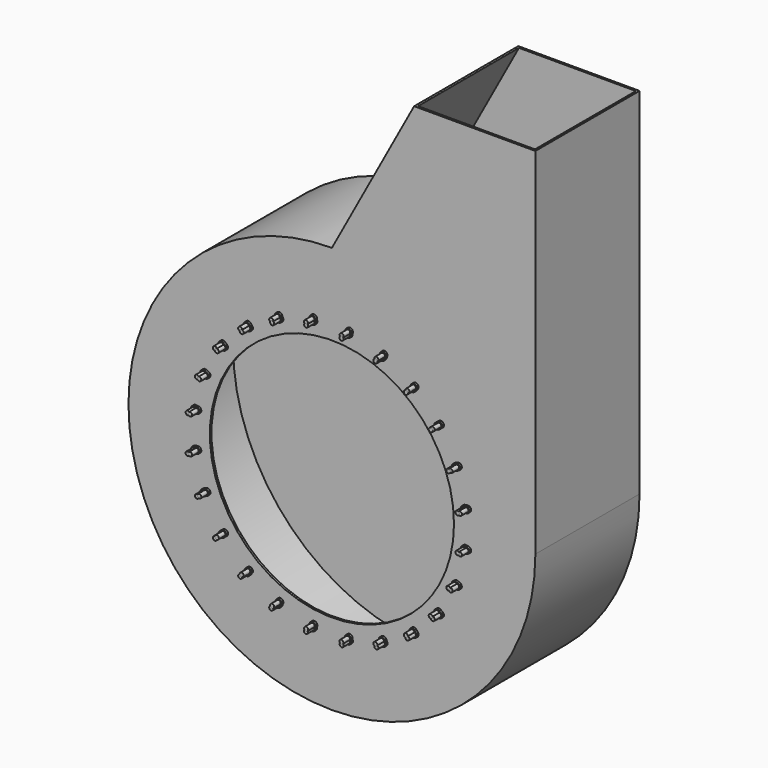
from build123d import *

# Parameters (mm, degrees)
F0_R      = 381
F0_R_2    = 6.35
F2_DEPTH  = 406.4
F3_T      = -6.35
F4_DEPTH  = 6.35
F5_DEPTH  = 31.75
F6_COUNT  = 24
F1_R      = 6.35
F7_DEPTH  = 31.75
F8_COUNT  = 24
F10_DEPTH = 6.35
F11_COUNT = 24


with BuildPart() as f2:
    # F0 (on Front) → F2 (new body)
    with BuildSketch(Plane.XZ):
        with BuildLine():
            ThreePointArc((0, 635), (449.0128060535, 449.0128060535), (635, 0))
            Line((635, 0), (635, 1107.6059138391))
            Line((635, 1107.6059138391), (256.5660140887, 1107.6059138391))
            Line((256.5660140887, 1107.6059138391), (0, 635))
        make_face()
        with BuildLine():
            ThreePointArc((0, 635), (-449.0128060535, -449.0128060535), (635, 0))
            ThreePointArc((635, 0), (449.0128060535, 449.0128060535), (0, 635))
        make_face()
        Circle(F0_R, mode=Mode.SUBTRACT)
        with Locations((55.9467891403, 424.9580537063)):
            Circle(F0_R_2, mode=Mode.SUBTRACT)
        Circle(F0_R)
        with Locations((55.9467891403, 424.9580537063)):
            Circle(F0_R_2)
    extrude(amount=-F2_DEPTH)

    # F3
    f3_openings = [f2.faces().sort_by_distance(p)[0] for p in [
        (445.783007, 203.2, 1107.605914),
    ]]
    offset(amount=F3_T, openings=f3_openings, kind=Kind.INTERSECTION)

    # F0 (on Front) → F4 (cut, through all)
    with BuildSketch(Plane.XZ):
        Circle(F0_R)
    extrude(amount=-F4_DEPTH, mode=Mode.SUBTRACT)


with BuildPart() as f5:
    # F0 (on Front) → F5 (new body)
    with BuildSketch(Plane.XZ):
        with Locations((55.9467891403, 424.9580537063)):
            Circle(F0_R_2)
    extrude(amount=F5_DEPTH)


with BuildPart() as f6_1:
    # F6: instance of F5
    add(f5.part.rotate(Axis((0, 0, 0), (0, -1, 0)), 1 * 360 / F6_COUNT))


with BuildPart() as f6_2:
    # F6: instance of F5
    add(f5.part.rotate(Axis((0, 0, 0), (0, -1, 0)), 2 * 360 / F6_COUNT))


with BuildPart() as f6_3:
    # F6: instance of F5
    add(f5.part.rotate(Axis((0, 0, 0), (0, -1, 0)), 3 * 360 / F6_COUNT))


with BuildPart() as f6_4:
    # F6: instance of F5
    add(f5.part.rotate(Axis((0, 0, 0), (0, -1, 0)), 4 * 360 / F6_COUNT))


with BuildPart() as f6_5:
    # F6: instance of F5
    add(f5.part.rotate(Axis((0, 0, 0), (0, -1, 0)), 5 * 360 / F6_COUNT))


with BuildPart() as f6_6:
    # F6: instance of F5
    add(f5.part.rotate(Axis((0, 0, 0), (0, -1, 0)), 6 * 360 / F6_COUNT))


with BuildPart() as f6_7:
    # F6: instance of F5
    add(f5.part.rotate(Axis((0, 0, 0), (0, -1, 0)), 7 * 360 / F6_COUNT))


with BuildPart() as f6_8:
    # F6: instance of F5
    add(f5.part.rotate(Axis((0, 0, 0), (0, -1, 0)), 8 * 360 / F6_COUNT))


with BuildPart() as f6_9:
    # F6: instance of F5
    add(f5.part.rotate(Axis((0, 0, 0), (0, -1, 0)), 9 * 360 / F6_COUNT))


with BuildPart() as f6_10:
    # F6: instance of F5
    add(f5.part.rotate(Axis((0, 0, 0), (0, -1, 0)), 10 * 360 / F6_COUNT))


with BuildPart() as f6_11:
    # F6: instance of F5
    add(f5.part.rotate(Axis((0, 0, 0), (0, -1, 0)), 11 * 360 / F6_COUNT))


with BuildPart() as f6_12:
    # F6: instance of F5
    add(f5.part.rotate(Axis((0, 0, 0), (0, -1, 0)), 12 * 360 / F6_COUNT))


with BuildPart() as f6_13:
    # F6: instance of F5
    add(f5.part.rotate(Axis((0, 0, 0), (0, -1, 0)), 13 * 360 / F6_COUNT))


with BuildPart() as f6_14:
    # F6: instance of F5
    add(f5.part.rotate(Axis((0, 0, 0), (0, -1, 0)), 14 * 360 / F6_COUNT))


with BuildPart() as f6_15:
    # F6: instance of F5
    add(f5.part.rotate(Axis((0, 0, 0), (0, -1, 0)), 15 * 360 / F6_COUNT))


with BuildPart() as f6_16:
    # F6: instance of F5
    add(f5.part.rotate(Axis((0, 0, 0), (0, -1, 0)), 16 * 360 / F6_COUNT))


with BuildPart() as f6_17:
    # F6: instance of F5
    add(f5.part.rotate(Axis((0, 0, 0), (0, -1, 0)), 17 * 360 / F6_COUNT))


with BuildPart() as f6_18:
    # F6: instance of F5
    add(f5.part.rotate(Axis((0, 0, 0), (0, -1, 0)), 18 * 360 / F6_COUNT))


with BuildPart() as f6_19:
    # F6: instance of F5
    add(f5.part.rotate(Axis((0, 0, 0), (0, -1, 0)), 19 * 360 / F6_COUNT))


with BuildPart() as f6_20:
    # F6: instance of F5
    add(f5.part.rotate(Axis((0, 0, 0), (0, -1, 0)), 20 * 360 / F6_COUNT))


with BuildPart() as f6_21:
    # F6: instance of F5
    add(f5.part.rotate(Axis((0, 0, 0), (0, -1, 0)), 21 * 360 / F6_COUNT))


with BuildPart() as f6_22:
    # F6: instance of F5
    add(f5.part.rotate(Axis((0, 0, 0), (0, -1, 0)), 22 * 360 / F6_COUNT))


with BuildPart() as f6_23:
    # F6: instance of F5
    add(f5.part.rotate(Axis((0, 0, 0), (0, -1, 0)), 23 * 360 / F6_COUNT))


with BuildPart() as f7:
    # F1 (on Front) → F7 (new body)
    with BuildSketch(Plane.XZ):
        with Locations((54.9107374896, 417.0884601192)):
            Circle(F1_R)
    extrude(amount=F7_DEPTH)


with BuildPart() as f8_1:
    # F8: instance of F7
    add(f7.part.rotate(Axis((0, 0, 0), (0, -1, 0)), 1 * 360 / F8_COUNT))


with BuildPart() as f8_2:
    # F8: instance of F7
    add(f7.part.rotate(Axis((0, 0, 0), (0, -1, 0)), 2 * 360 / F8_COUNT))


with BuildPart() as f8_3:
    # F8: instance of F7
    add(f7.part.rotate(Axis((0, 0, 0), (0, -1, 0)), 3 * 360 / F8_COUNT))


with BuildPart() as f8_4:
    # F8: instance of F7
    add(f7.part.rotate(Axis((0, 0, 0), (0, -1, 0)), 4 * 360 / F8_COUNT))


with BuildPart() as f8_5:
    # F8: instance of F7
    add(f7.part.rotate(Axis((0, 0, 0), (0, -1, 0)), 5 * 360 / F8_COUNT))


with BuildPart() as f8_6:
    # F8: instance of F7
    add(f7.part.rotate(Axis((0, 0, 0), (0, -1, 0)), 6 * 360 / F8_COUNT))


with BuildPart() as f8_7:
    # F8: instance of F7
    add(f7.part.rotate(Axis((0, 0, 0), (0, -1, 0)), 7 * 360 / F8_COUNT))


with BuildPart() as f8_8:
    # F8: instance of F7
    add(f7.part.rotate(Axis((0, 0, 0), (0, -1, 0)), 8 * 360 / F8_COUNT))


with BuildPart() as f8_9:
    # F8: instance of F7
    add(f7.part.rotate(Axis((0, 0, 0), (0, -1, 0)), 9 * 360 / F8_COUNT))


with BuildPart() as f8_10:
    # F8: instance of F7
    add(f7.part.rotate(Axis((0, 0, 0), (0, -1, 0)), 10 * 360 / F8_COUNT))


with BuildPart() as f8_11:
    # F8: instance of F7
    add(f7.part.rotate(Axis((0, 0, 0), (0, -1, 0)), 11 * 360 / F8_COUNT))


with BuildPart() as f8_12:
    # F8: instance of F7
    add(f7.part.rotate(Axis((0, 0, 0), (0, -1, 0)), 12 * 360 / F8_COUNT))


with BuildPart() as f8_13:
    # F8: instance of F7
    add(f7.part.rotate(Axis((0, 0, 0), (0, -1, 0)), 13 * 360 / F8_COUNT))


with BuildPart() as f8_14:
    # F8: instance of F7
    add(f7.part.rotate(Axis((0, 0, 0), (0, -1, 0)), 14 * 360 / F8_COUNT))


with BuildPart() as f8_15:
    # F8: instance of F7
    add(f7.part.rotate(Axis((0, 0, 0), (0, -1, 0)), 15 * 360 / F8_COUNT))


with BuildPart() as f8_16:
    # F8: instance of F7
    add(f7.part.rotate(Axis((0, 0, 0), (0, -1, 0)), 16 * 360 / F8_COUNT))


with BuildPart() as f8_17:
    # F8: instance of F7
    add(f7.part.rotate(Axis((0, 0, 0), (0, -1, 0)), 17 * 360 / F8_COUNT))


with BuildPart() as f8_18:
    # F8: instance of F7
    add(f7.part.rotate(Axis((0, 0, 0), (0, -1, 0)), 18 * 360 / F8_COUNT))


with BuildPart() as f8_19:
    # F8: instance of F7
    add(f7.part.rotate(Axis((0, 0, 0), (0, -1, 0)), 19 * 360 / F8_COUNT))


with BuildPart() as f8_20:
    # F8: instance of F7
    add(f7.part.rotate(Axis((0, 0, 0), (0, -1, 0)), 20 * 360 / F8_COUNT))


with BuildPart() as f8_21:
    # F8: instance of F7
    add(f7.part.rotate(Axis((0, 0, 0), (0, -1, 0)), 21 * 360 / F8_COUNT))


with BuildPart() as f8_22:
    # F8: instance of F7
    add(f7.part.rotate(Axis((0, 0, 0), (0, -1, 0)), 22 * 360 / F8_COUNT))


with BuildPart() as f8_23:
    # F8: instance of F7
    add(f7.part.rotate(Axis((0, 0, 0), (0, -1, 0)), 23 * 360 / F8_COUNT))


with BuildPart() as f10:
    # F9 (on Front) → F10 (new body)
    with BuildSketch(Plane.XZ):
        with BuildLine():
            ThreePointArc((65.3903014449, 423.7147917255), (65.4513953842, 424.3350889004), (65.4717891403, 424.9580537063))
            ThreePointArc((65.4717891403, 424.9580537063), (56.5697539462, 434.4626599502), (46.5032768357, 426.2013156872))
            ThreePointArc((46.5032768357, 426.2013156872), (46.4553640138, 424.1590079826), (46.8440502248, 422.1534558322))
            ThreePointArc((46.8440502248, 422.1534558322), (56.1539994705, 426.5319724238), (64.0134764051, 419.8930579934))
            ThreePointArc((64.0134764051, 419.8930579934), (64.9079935471, 421.7296732175), (65.3903014449, 423.7147917255))
        make_face()
        with BuildLine():
            ThreePointArc((64.0134764051, 419.8930579934), (56.1539994705, 426.5319724238), (46.8440502248, 422.1534558322))
            ThreePointArc((46.8440502248, 422.1534558322), (54.7035271594, 415.5145414018), (64.0134764051, 419.8930579934))
        make_face()
        with BuildLine():
            ThreePointArc((64.0134764051, 419.8930579934), (54.7035271594, 415.5145414018), (46.8440502248, 422.1534558322))
            ThreePointArc((46.8440502248, 422.1534558322), (45.9495330828, 420.316840608), (45.467225185, 418.3317221001))
            ThreePointArc((45.467225185, 418.3317221001), (53.6674755087, 407.6449478146), (64.3542497942, 415.8451981383))
            ThreePointArc((64.3542497942, 415.8451981383), (64.4153437334, 416.4654953133), (64.4357374896, 417.0884601192))
            ThreePointArc((64.4357374896, 417.0884601192), (64.3295806555, 418.5065639288), (64.0134764051, 419.8930579934))
        make_face()
        with BuildLine():
            ThreePointArc((65.3903014449, 423.7147917255), (65.4513953842, 424.3350889004), (65.4717891403, 424.9580537063))
            ThreePointArc((65.4717891403, 424.9580537063), (56.5697539462, 434.4626599502), (46.5032768357, 426.2013156872))
            ThreePointArc((46.5032768357, 426.2013156872), (46.4553640138, 424.1590079826), (46.8440502248, 422.1534558322))
            ThreePointArc((46.8440502248, 422.1534558322), (56.1539994705, 426.5319724238), (64.0134764051, 419.8930579934))
            ThreePointArc((64.0134764051, 419.8930579934), (64.9079935471, 421.7296732175), (65.3903014449, 423.7147917255))
        make_face()
        with BuildLine():
            ThreePointArc((46.8440502248, 422.1534558322), (46.4553640138, 424.1590079826), (46.5032768357, 426.2013156872))
            Line((46.5032768357, 426.2013156872), (45.467225185, 418.3317221001))
            ThreePointArc((45.467225185, 418.3317221001), (45.9495330828, 420.316840608), (46.8440502248, 422.1534558322))
        make_face()
        with BuildLine():
            ThreePointArc((65.3903014449, 423.7147917255), (65.4513953842, 424.3350889004), (65.4717891403, 424.9580537063))
            ThreePointArc((65.4717891403, 424.9580537063), (56.5697539462, 434.4626599502), (46.5032768357, 426.2013156872))
            ThreePointArc((46.5032768357, 426.2013156872), (46.4553640138, 424.1590079826), (46.8440502248, 422.1534558322))
            ThreePointArc((46.8440502248, 422.1534558322), (56.1539994705, 426.5319724238), (64.0134764051, 419.8930579934))
            ThreePointArc((64.0134764051, 419.8930579934), (64.9079935471, 421.7296732175), (65.3903014449, 423.7147917255))
        make_face()
        with BuildLine():
            Line((64.3542497942, 415.8451981383), (65.3903014449, 423.7147917255))
            ThreePointArc((65.3903014449, 423.7147917255), (64.9079935471, 421.7296732175), (64.0134764051, 419.8930579934))
            ThreePointArc((64.0134764051, 419.8930579934), (64.3295806555, 418.5065639288), (64.4357374896, 417.0884601192))
            ThreePointArc((64.4357374896, 417.0884601192), (64.4153437334, 416.4654953133), (64.3542497942, 415.8451981383))
        make_face()
    extrude(amount=F10_DEPTH)


with BuildPart() as f11_1:
    # F11: instance of F10
    add(f10.part.rotate(Axis((0, 0, 0), (0, -1, 0)), 1 * 360 / F11_COUNT))


with BuildPart() as f11_2:
    # F11: instance of F10
    add(f10.part.rotate(Axis((0, 0, 0), (0, -1, 0)), 2 * 360 / F11_COUNT))


with BuildPart() as f11_3:
    # F11: instance of F10
    add(f10.part.rotate(Axis((0, 0, 0), (0, -1, 0)), 3 * 360 / F11_COUNT))


with BuildPart() as f11_4:
    # F11: instance of F10
    add(f10.part.rotate(Axis((0, 0, 0), (0, -1, 0)), 4 * 360 / F11_COUNT))


with BuildPart() as f11_5:
    # F11: instance of F10
    add(f10.part.rotate(Axis((0, 0, 0), (0, -1, 0)), 5 * 360 / F11_COUNT))


with BuildPart() as f11_6:
    # F11: instance of F10
    add(f10.part.rotate(Axis((0, 0, 0), (0, -1, 0)), 6 * 360 / F11_COUNT))


with BuildPart() as f11_7:
    # F11: instance of F10
    add(f10.part.rotate(Axis((0, 0, 0), (0, -1, 0)), 7 * 360 / F11_COUNT))


with BuildPart() as f11_8:
    # F11: instance of F10
    add(f10.part.rotate(Axis((0, 0, 0), (0, -1, 0)), 8 * 360 / F11_COUNT))


with BuildPart() as f11_9:
    # F11: instance of F10
    add(f10.part.rotate(Axis((0, 0, 0), (0, -1, 0)), 9 * 360 / F11_COUNT))


with BuildPart() as f11_10:
    # F11: instance of F10
    add(f10.part.rotate(Axis((0, 0, 0), (0, -1, 0)), 10 * 360 / F11_COUNT))


with BuildPart() as f11_11:
    # F11: instance of F10
    add(f10.part.rotate(Axis((0, 0, 0), (0, -1, 0)), 11 * 360 / F11_COUNT))


with BuildPart() as f11_12:
    # F11: instance of F10
    add(f10.part.rotate(Axis((0, 0, 0), (0, -1, 0)), 12 * 360 / F11_COUNT))


with BuildPart() as f11_13:
    # F11: instance of F10
    add(f10.part.rotate(Axis((0, 0, 0), (0, -1, 0)), 13 * 360 / F11_COUNT))


with BuildPart() as f11_14:
    # F11: instance of F10
    add(f10.part.rotate(Axis((0, 0, 0), (0, -1, 0)), 14 * 360 / F11_COUNT))


with BuildPart() as f11_15:
    # F11: instance of F10
    add(f10.part.rotate(Axis((0, 0, 0), (0, -1, 0)), 15 * 360 / F11_COUNT))


with BuildPart() as f11_16:
    # F11: instance of F10
    add(f10.part.rotate(Axis((0, 0, 0), (0, -1, 0)), 16 * 360 / F11_COUNT))


with BuildPart() as f11_17:
    # F11: instance of F10
    add(f10.part.rotate(Axis((0, 0, 0), (0, -1, 0)), 17 * 360 / F11_COUNT))


with BuildPart() as f11_18:
    # F11: instance of F10
    add(f10.part.rotate(Axis((0, 0, 0), (0, -1, 0)), 18 * 360 / F11_COUNT))


with BuildPart() as f11_19:
    # F11: instance of F10
    add(f10.part.rotate(Axis((0, 0, 0), (0, -1, 0)), 19 * 360 / F11_COUNT))


with BuildPart() as f11_20:
    # F11: instance of F10
    add(f10.part.rotate(Axis((0, 0, 0), (0, -1, 0)), 20 * 360 / F11_COUNT))


with BuildPart() as f11_21:
    # F11: instance of F10
    add(f10.part.rotate(Axis((0, 0, 0), (0, -1, 0)), 21 * 360 / F11_COUNT))


with BuildPart() as f11_22:
    # F11: instance of F10
    add(f10.part.rotate(Axis((0, 0, 0), (0, -1, 0)), 22 * 360 / F11_COUNT))


with BuildPart() as f11_23:
    # F11: instance of F10
    add(f10.part.rotate(Axis((0, 0, 0), (0, -1, 0)), 23 * 360 / F11_COUNT))


solid = Compound([f2.part, f5.part, f6_1.part, f6_2.part, f6_3.part, f6_4.part, f6_5.part, f6_6.part, f6_7.part, f6_8.part, f6_9.part, f6_10.part, f6_11.part, f6_12.part, f6_13.part, f6_14.part, f6_15.part, f6_16.part, f6_17.part, f6_18.part, f6_19.part, f6_20.part, f6_21.part, f6_22.part, f6_23.part, f7.part, f8_1.part, f8_2.part, f8_3.part, f8_4.part, f8_5.part, f8_6.part, f8_7.part, f8_8.part, f8_9.part, f8_10.part, f8_11.part, f8_12.part, f8_13.part, f8_14.part, f8_15.part, f8_16.part, f8_17.part, f8_18.part, f8_19.part, f8_20.part, f8_21.part, f8_22.part, f8_23.part, f10.part, f11_1.part, f11_2.part, f11_3.part, f11_4.part, f11_5.part, f11_6.part, f11_7.part, f11_8.part, f11_9.part, f11_10.part, f11_11.part, f11_12.part, f11_13.part, f11_14.part, f11_15.part, f11_16.part, f11_17.part, f11_18.part, f11_19.part, f11_20.part, f11_21.part, f11_22.part, f11_23.part])
